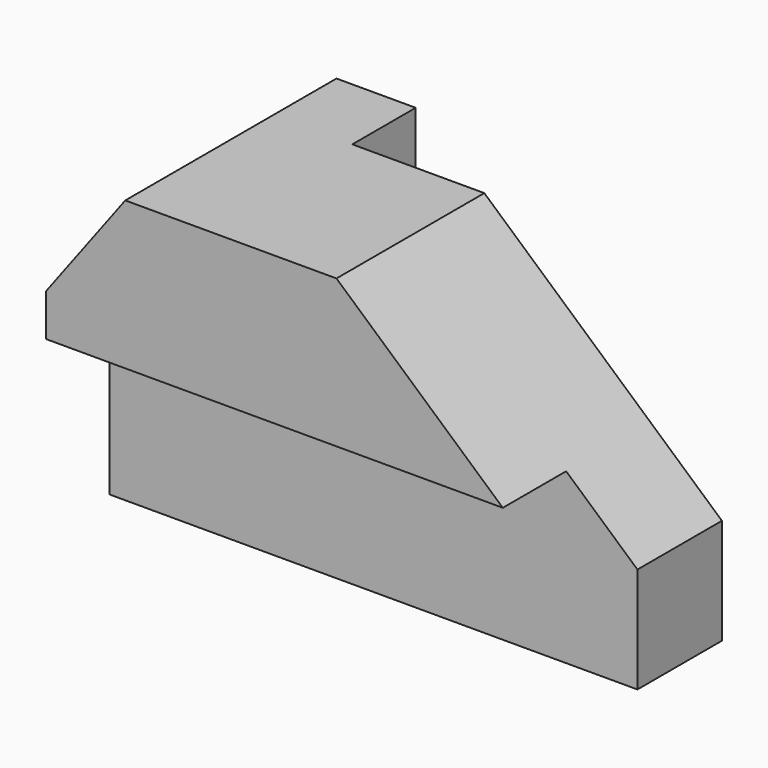
from build123d import *

# Parameters (mm, degrees)
F0_W      = 100
F0_H      = 50
F1_DEPTH  = 60
F3_DEPTH  = 50
F5_DEPTH  = 50
F7_DEPTH  = 15
F9_DEPTH  = 15
F10_W     = 86.5
F10_H     = 32
F11_DEPTH = 15


with BuildPart() as f1:
    # F0 (on Top) → F1 (new body)
    with BuildSketch(Plane.XY):
        with Locations((50, 25)):
            Rectangle(F0_W, F0_H)
    extrude(amount=F1_DEPTH)

    # F2 (on face) → F3 (cut, through all)
    with BuildSketch(Plane.XZ):
        Polygon((15, 60), (0, 60), (0, 40), align=None)
    extrude(amount=-F3_DEPTH, mode=Mode.SUBTRACT)

    # F4 (on face) → F5 (cut, through all)
    with BuildSketch(Plane.XZ):
        Polygon((100, 20), (100, 60), (55, 60), align=None)
    extrude(amount=-F5_DEPTH, mode=Mode.SUBTRACT)

    # F6 (on face) → F7 (cut)
    with BuildSketch(Plane(origin=(0, 50, 0), x_dir=(-1, 0, 0), z_dir=(0, 1, 0))):
        Polygon((-100, 0), (-30, 0), (-30, 60), (-55, 60), (-100, 20), align=None)
    extrude(amount=-F7_DEPTH, mode=Mode.SUBTRACT)

    # F8 (on face) → F9 (cut)
    with BuildSketch(Plane.XZ):
        Polygon((86.5, 32), (86.5, 0), (100, 0), (100, 20), align=None)
    extrude(amount=-F9_DEPTH, mode=Mode.SUBTRACT)

    # F10 (on face) → F11 (cut)
    with BuildSketch(Plane.XZ):
        with Locations((43.25, 16)):
            Rectangle(F10_W, F10_H)
    extrude(amount=-F11_DEPTH, mode=Mode.SUBTRACT)


solid = f1.part
